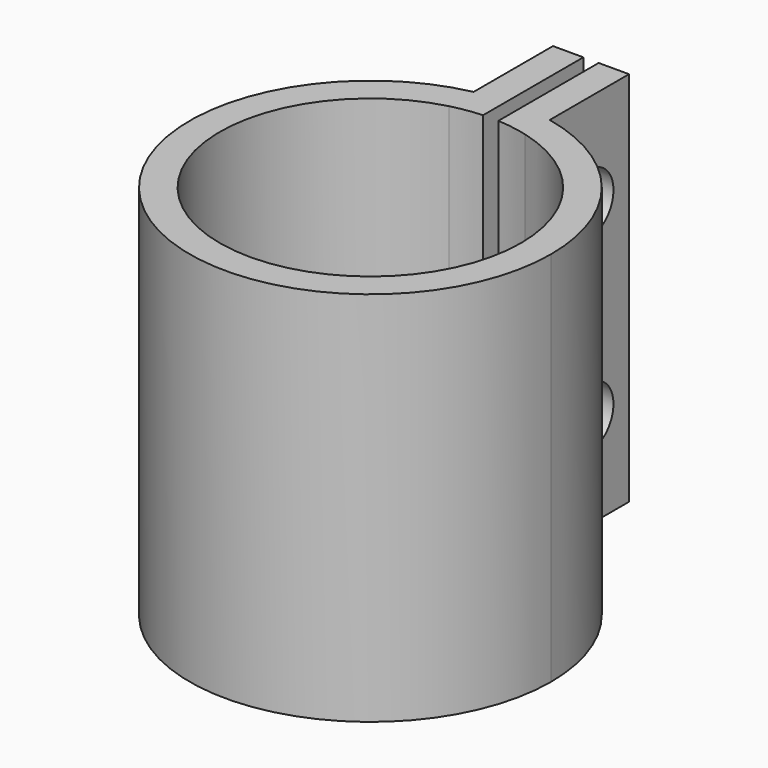
from build123d import *

# Parameters (mm, degrees)
F1_DEPTH = 25
F3_D     = 4


with BuildPart() as f1:
    # F0 (on Top) → F1 (new body)
    with BuildSketch(Plane.XY):
        with BuildLine():
            ThreePointArc((2.5252806954, 9.6758956903), (7.9136845702, 6.1133948444), (10, 0))
            ThreePointArc((10, 0), (-6.1133948444, -7.9136845702), (-2.5252806954, 9.6758956903))
            Line((-2.5252806954, 9.6758956903), (-2.5252806954, 11.7312811495))
            ThreePointArc((-2.5252806954, 11.7312811495), (-7.5397822135, -9.3355066372), (12, 0))
            ThreePointArc((12, 0), (9.3355066372, 7.5397822135), (2.5252806954, 11.7312811495))
            Line((2.5252806954, 11.7312811495), (2.5252806954, 9.6758956903))
        make_face()
        with BuildLine():
            Line((-2.5252806954, 11.7312811495), (-2.5252806954, 9.6758956903))
            ThreePointArc((-2.5252806954, 9.6758956903), (-1.5241303693, 9.883168855), (-0.5070488551, 9.9871367998))
            Line((-0.5070488551, 9.9871367998), (-0.5070488551, 11.989282775))
            ThreePointArc((-0.5070488551, 11.989282775), (-1.5216428081, 11.903134174), (-2.5252806954, 11.7312811495))
        make_face()
        with BuildLine():
            ThreePointArc((0.5070488551, 9.9871367998), (1.5241303693, 9.883168855), (2.5252806954, 9.6758956903))
            Line((2.5252806954, 9.6758956903), (2.5252806954, 11.7312811495))
            ThreePointArc((2.5252806954, 11.7312811495), (1.5216428081, 11.903134174), (0.5070488551, 11.989282775))
            Line((0.5070488551, 11.989282775), (0.5070488551, 9.9871367998))
        make_face()
        with BuildLine():
            ThreePointArc((0.5070488551, 11.989282775), (1.5216428081, 11.903134174), (2.5252806954, 11.7312811495))
            Line((2.5252806954, 11.7312811495), (2.5252806954, 18.3154027909))
            Line((2.5252806954, 18.3154027909), (0.5070488551, 18.3154027909))
            Line((0.5070488551, 18.3154027909), (0.5070488551, 16.0415843129))
            Line((0.5070488551, 16.0415843129), (0.5070488551, 11.989282775))
        make_face()
        with BuildLine():
            Line((-2.5252806954, 18.3154027909), (-2.5252806954, 11.7312811495))
            ThreePointArc((-2.5252806954, 11.7312811495), (-1.5216428081, 11.903134174), (-0.5070488551, 11.989282775))
            Line((-0.5070488551, 11.989282775), (-0.5070488551, 16.0415843129))
            Line((-0.5070488551, 16.0415843129), (-0.5070488551, 18.3154027909))
            Line((-0.5070488551, 18.3154027909), (-2.5252806954, 18.3154027909))
        make_face()
    extrude(amount=F1_DEPTH)

    # F3 (through all)
    with Locations(Plane.YZ.offset(2.5252806954)):
        with Locations((15.0233419702, 18.75), (15.0233419702, 6.25)):
            Hole(F3_D / 2)


solid = f1.part
